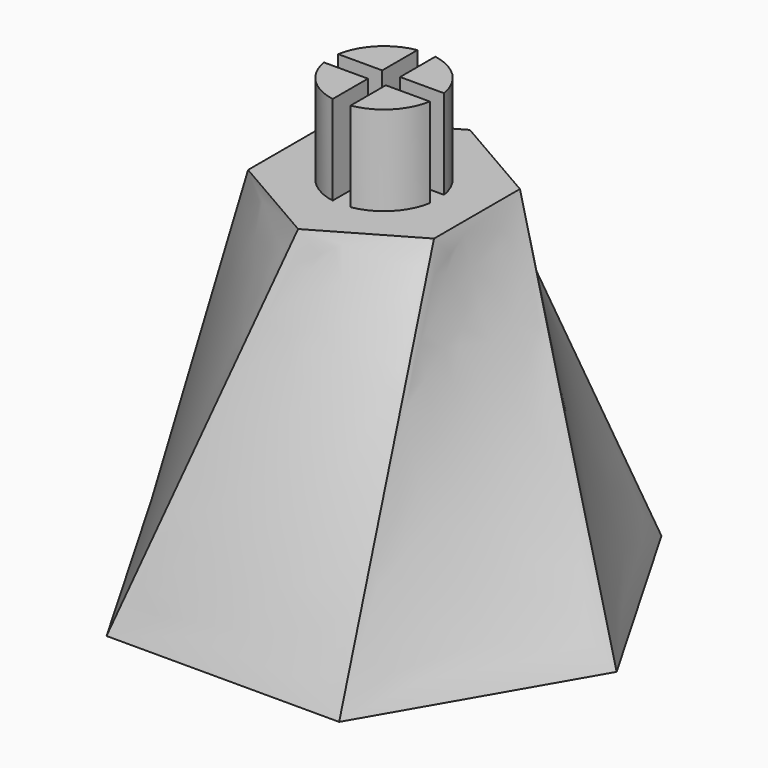
from build123d import *

# Parameters (mm, degrees)
F4_T     = -1.778
F6_DEPTH = 6.35


with BuildPart() as f3:
    # F2 (on offset) → F3 section 0
    with BuildSketch(Plane.XY.offset(25.4)):
        Polygon((0, 7.62), (-6.5991135768, 3.81), (-6.5991135768, -3.81), (0, -7.62), (6.5991135768, -3.81), (6.5991135768, 3.81), align=None)
    # F0 (on Top) → F3 section 1
    with BuildSketch(Plane.XY):
        Polygon((8.255, 14.2980794165), (-8.255, 14.2980794165), (-16.51, 0), (-8.255, -14.2980794165), (8.255, -14.2980794165), (16.51, 0), align=None)
    loft()

    # F4
    f4_openings = [f3.faces().sort_by_distance(p)[0] for p in [
        (0, 0, 0),
    ]]
    offset(amount=F4_T, openings=f4_openings, kind=Kind.INTERSECTION)

    # F5 (on face) → F6 (join)
    with BuildSketch(Plane.XY.offset(25.4)):
        with BuildLine():
            Line((-3.7567106623, 0.635), (-0.635, 0.635))
            Line((-0.635, 0.635), (-0.635, 3.7567106623))
            ThreePointArc((-0.635, 3.7567106623), (-2.6940768363, 2.6940768363), (-3.7567106623, 0.635))
        make_face()
        with BuildLine():
            Line((0.635, 0.635), (3.7567106623, 0.635))
            ThreePointArc((3.7567106623, 0.635), (2.6940768363, 2.6940768363), (0.635, 3.7567106623))
            Line((0.635, 3.7567106623), (0.635, 0.635))
        make_face()
        with BuildLine():
            ThreePointArc((0.635, -3.7567106623), (2.6940768363, -2.6940768363), (3.7567106623, -0.635))
            Line((3.7567106623, -0.635), (0.635, -0.635))
            Line((0.635, -0.635), (0.635, -3.7567106623))
        make_face()
        with BuildLine():
            Line((-0.635, -3.7567106623), (-0.635, -0.635))
            Line((-0.635, -0.635), (-3.7567106623, -0.635))
            ThreePointArc((-3.7567106623, -0.635), (-2.6940768363, -2.6940768363), (-0.635, -3.7567106623))
        make_face()
    extrude(amount=F6_DEPTH)


solid = f3.part
